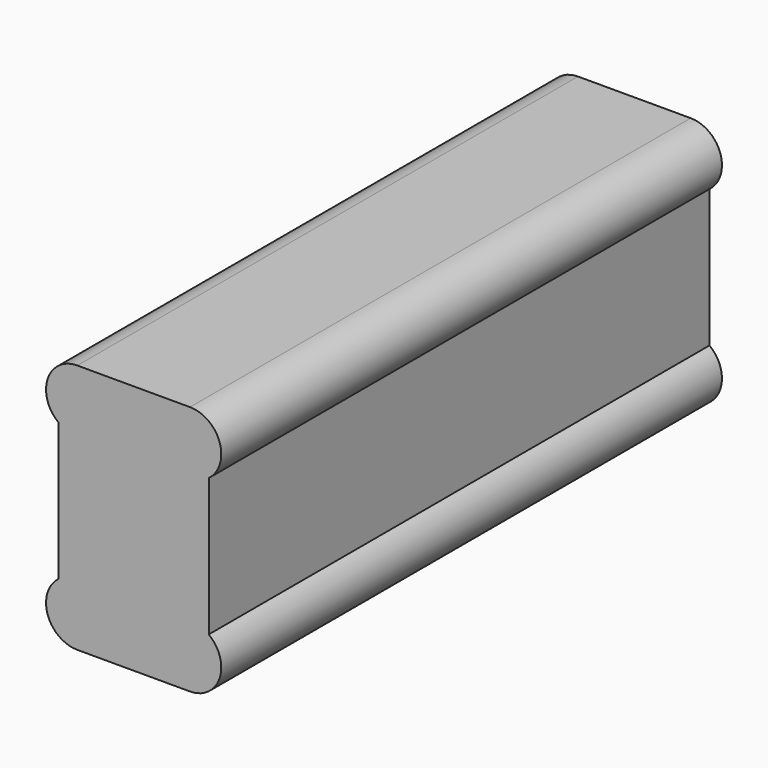
from build123d import *

# Parameters (mm, degrees)
F1_DEPTH = 25


with BuildPart() as f1:
    # F0 (on Front) → F1 (new body, symmetric)
    with BuildSketch(Plane.XZ):
        with BuildLine():
            Line((4.5, 10), (-4.5, 10))
            ThreePointArc((-4.5, 10), (-6.871708, 8.290569), (-6, 5.5))
            Line((-6, 5.5), (-6, -5.5))
            ThreePointArc((-6, -5.5), (-6.871708, -8.290569), (-4.5, -10))
            Line((-4.5, -10), (4.5, -10))
            ThreePointArc((4.5, -10), (6.871708, -8.290569), (6, -5.5))
            Line((6, -5.5), (6, 5.5))
            ThreePointArc((6, 5.5), (6.871708, 8.290569), (4.5, 10))
        make_face()
    extrude(amount=F1_DEPTH, both=True)


solid = f1.part
